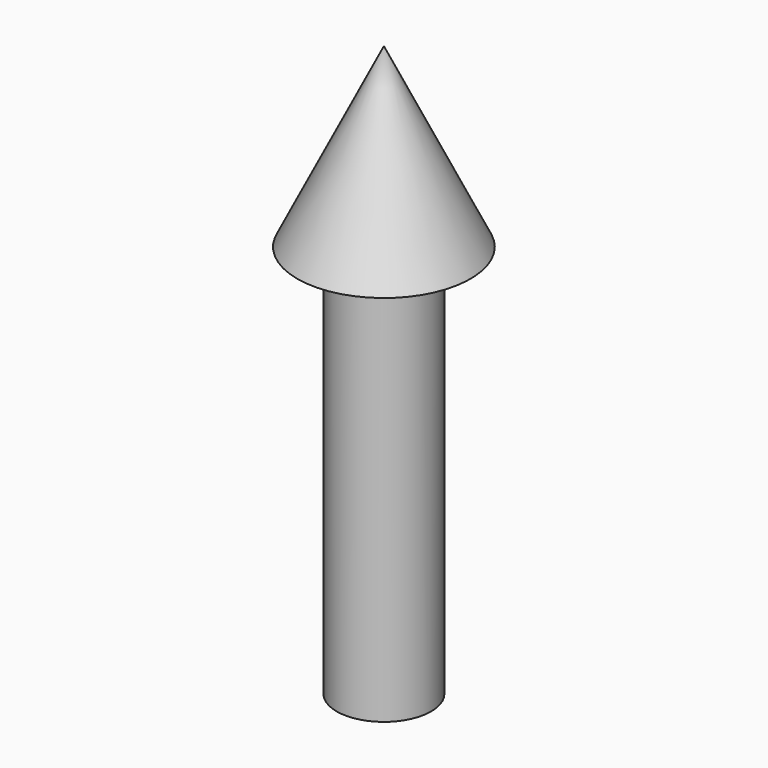
from build123d import *

# Parameters (mm, degrees)
F0_W = 6
F0_H = 50


with BuildPart() as f1:
    # F0 (on Front) → F1 (revolve)
    with BuildSketch(Plane.XZ):
        with Locations((-27.692446, 25)):
            Rectangle(F0_W, F0_H)
    revolve(axis=Axis((-24.692446, 0, 25), (0, 0, 1)))

    # F0 (on Front) → F2 (revolve)
    with BuildSketch(Plane.XZ):
        Polygon((-35.692446, 50), (-30.692446, 50), (-24.692446, 50), (-24.692446, 72.449944), align=None)
    revolve(axis=Axis((-24.692446, 0, 61.224972), (0, 0, -1)))


solid = f1.part
